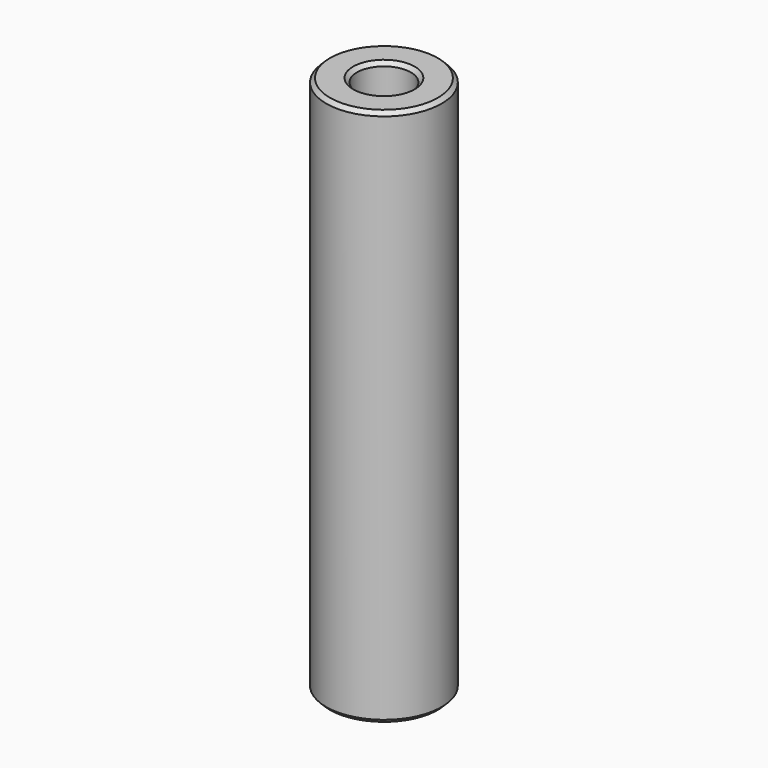
from build123d import *

# Parameters (mm, degrees)
F0_W    = 4
F0_H    = 70
F2_SIZE = 0.5


with BuildPart() as f1:
    # F0 (on Front) → F1 (revolve)
    with BuildSketch(Plane.XZ):
        with Locations((-5.5, 0)):
            Rectangle(F0_W, F0_H)
    revolve(axis=Axis((0, 0, 0), (0, 0, -1)))

    # F2
    f2_edges = [f1.edges().sort_by_distance(p)[0] for p in [
        (3.5, 0, 35),
        (7.5, 0, 35),
        (7.5, 0, -35),
        (3.5, 0, -35),
    ]]
    chamfer(f2_edges, length=F2_SIZE)


solid = f1.part
